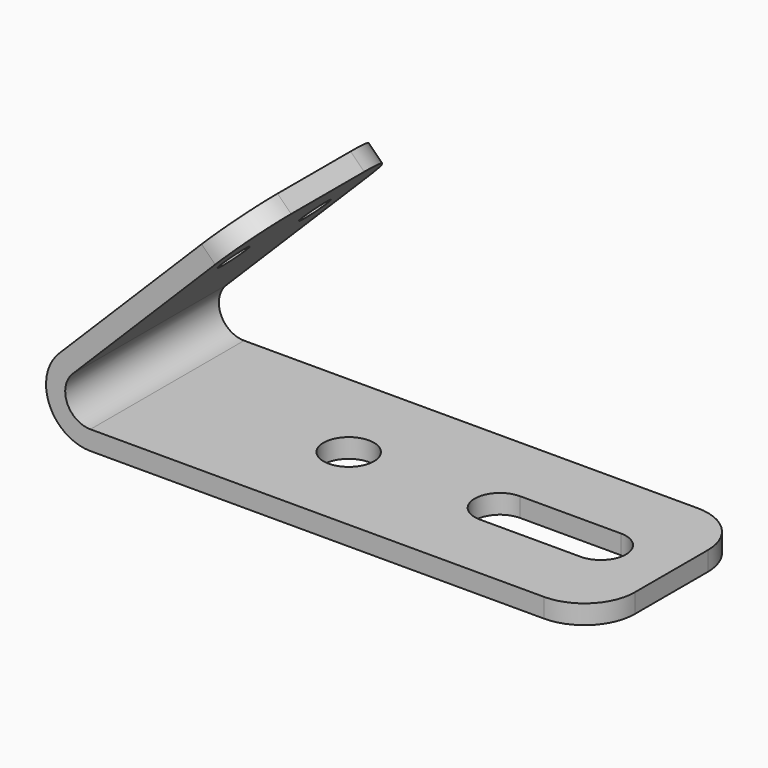
from build123d import *

# Parameters (mm, degrees)
F1_DEPTH = 241.935
F2_R     = 63.5
F3_DEPTH = 48.261
F4_R     = 38.1
F5_DEPTH = 48.26


with BuildPart() as f1:
    # F0 (on Front) → F1 (new body, symmetric)
    with BuildSketch(Plane.XZ):
        with BuildLine():
            ThreePointArc((-714.026254, 190.786254), (-738.252777, 68.9913), (-635, 0))
            Line((-635, 0), (635, 0))
            Line((635, 0), (635, 48.26))
            Line((635, 48.26), (-635, 48.26))
            ThreePointArc((-635, 48.26), (-693.66635, 87.459602), (-679.901281, 156.661281))
            Line((-679.901281, 156.661281), (-230.888475, 605.674087))
            Line((-230.888475, 605.674087), (-265.013448, 639.79906))
            Line((-265.013448, 639.79906), (-714.026254, 190.786254))
        make_face()
    extrude(amount=F1_DEPTH, both=True)

    # F2 (on face) → F3 (cut, through all)
    with BuildSketch(Plane.XY.offset(48.26)):
        with Locations((-177.8, 0)):
            Circle(F2_R)
        with BuildLine():
            ThreePointArc((203.2, 63.5), (139.7, 0), (203.2, -63.5))
            Line((203.2, -63.5), (457.2, -63.5))
            ThreePointArc((457.2, -63.5), (520.7, 0), (457.2, 63.5))
            Line((457.2, 63.5), (203.2, 63.5))
        make_face()
        with BuildLine():
            ThreePointArc((508, 241.935), (597.802561, 204.737561), (635, 114.935))
            Line((635, 114.935), (635, 241.935))
            Line((635, 241.935), (508, 241.935))
        make_face()
        with BuildLine():
            Line((635, -241.935), (635, -114.935))
            ThreePointArc((635, -114.935), (597.802561, -204.737561), (508, -241.935))
            Line((508, -241.935), (635, -241.935))
        make_face()
    extrude(amount=-F3_DEPTH, mode=Mode.SUBTRACT)

    # F4 (on face) → F5 (cut, through all)
    with BuildSketch(Plane(origin=(-452.406254, 0, 452.406254), x_dir=(0, -1, 0), z_dir=(-0.707107, 0, 0.707107))):
        with BuildLine():
            ThreePointArc((-241.935, 138.013448), (-204.737561, 227.816009), (-114.935, 265.013448))
            Line((-114.935, 265.013448), (-241.935, 265.013448))
            Line((-241.935, 265.013448), (-241.935, 138.013448))
        make_face()
        with Locations((127.635, 74.513448)):
            Circle(F4_R)
        with Locations((-127.635, 74.513448)):
            Circle(F4_R)
        with BuildLine():
            Line((241.935, 265.013448), (114.935, 265.013448))
            ThreePointArc((114.935, 265.013448), (204.737561, 227.816009), (241.935, 138.013448))
            Line((241.935, 138.013448), (241.935, 265.013448))
        make_face()
    extrude(amount=-F5_DEPTH, mode=Mode.SUBTRACT)


solid = f1.part
